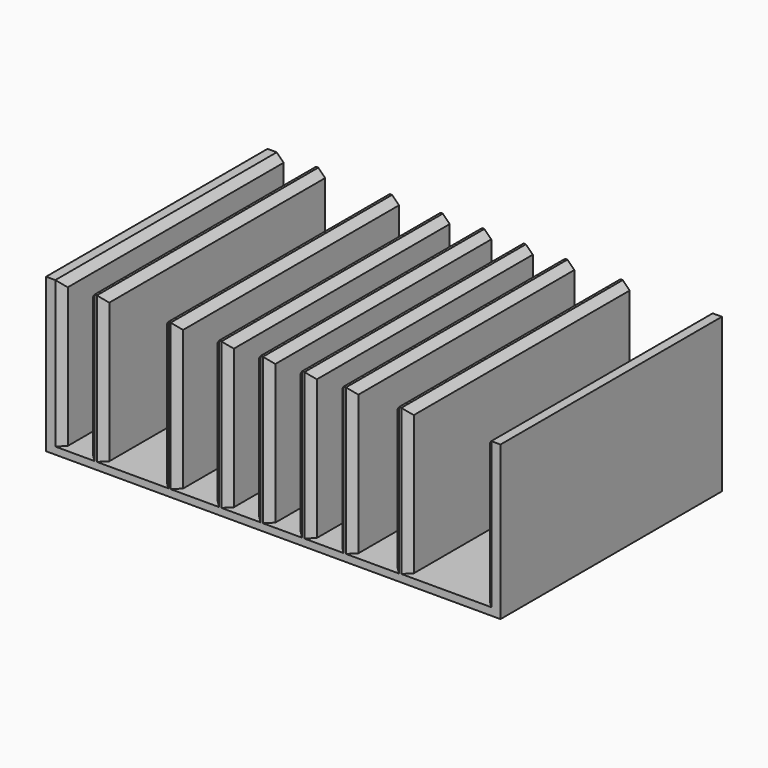
from build123d import *

# Parameters (mm, degrees)
F1_DEPTH = 60
F2_SIZE  = 1.5


with BuildPart() as f1:
    # F0 (on Front) → F1 (new body)
    with BuildSketch(Plane.XZ):
        Polygon((-57.5, 24.006124), (-57.5, -9.314226), (41, -9.314226), (41, 24.006124), (37.5, 24.006124), (37.5, -7.686828), (21, -7.686828), (21, 24.006124), (17.5, 24.006124), (17.5, -7.764603), (9, -7.764603), (9, 24.006124), (5.5, 24.006124), (5.5, -7.764603), (0, -7.764603), (0, 24.006124), (-3.5, 24.006124), (-3.5, -7.764603), (-9, -7.764603), (-9, 24.006124), (-12.5, 24.006124), (-12.5, -7.764603), (-18, -7.764603), (-18, 24.006124), (-21.5, 24.006124), (-21.5, -7.764603), (-29, -7.764603), (-29, 24.006124), (-32.5, 24.006124), (-32.5, -7.764603), (-45, -7.764603), (-45, 24.006124), (-48.5, 24.006124), (-48.5, -7.764603), (-54, -7.764603), (-54, 24.006124), align=None)
    extrude(amount=F1_DEPTH)

    # F2
    f2_edges = [f1.edges().sort_by_distance(p)[0] for p in [
        (37.5, -30, 24.006124),
        (21, -30, 24.006124),
        (17.5, -30, 24.006124),
        (9, -30, 24.006124),
        (5.5, -30, 24.006124),
        (0, -30, 24.006124),
        (-3.5, -30, 24.006124),
        (-9, -30, 24.006124),
        (-12.5, -30, 24.006124),
        (-18, -30, 24.006124),
        (-21.5, -30, 24.006124),
        (-29, -30, 24.006124),
        (-32.5, -30, 24.006124),
        (-45, -30, 24.006124),
        (-48.5, -30, 24.006124),
        (-54, -30, 24.006124),
        (9, -60, 8.120761),
        (5.5, -60, 8.120761),
        (37.5, -60, 8.159648),
        (21, -60, 8.159648),
        (17.5, -60, 8.120761),
        (0, -60, 8.120761),
        (-3.5, -60, 8.120761),
        (-12.5, -60, 8.120761),
        (-18, -60, 8.120761),
        (-21.5, -60, 8.120761),
        (-29, -60, 8.120761),
        (-32.5, -60, 8.120761),
        (-45, -60, 8.120761),
        (-48.5, -60, 8.120761),
        (-54, -60, 8.120761),
        (-9, -60, 8.120761),
    ]]
    chamfer(f2_edges, length=F2_SIZE)


solid = f1.part
